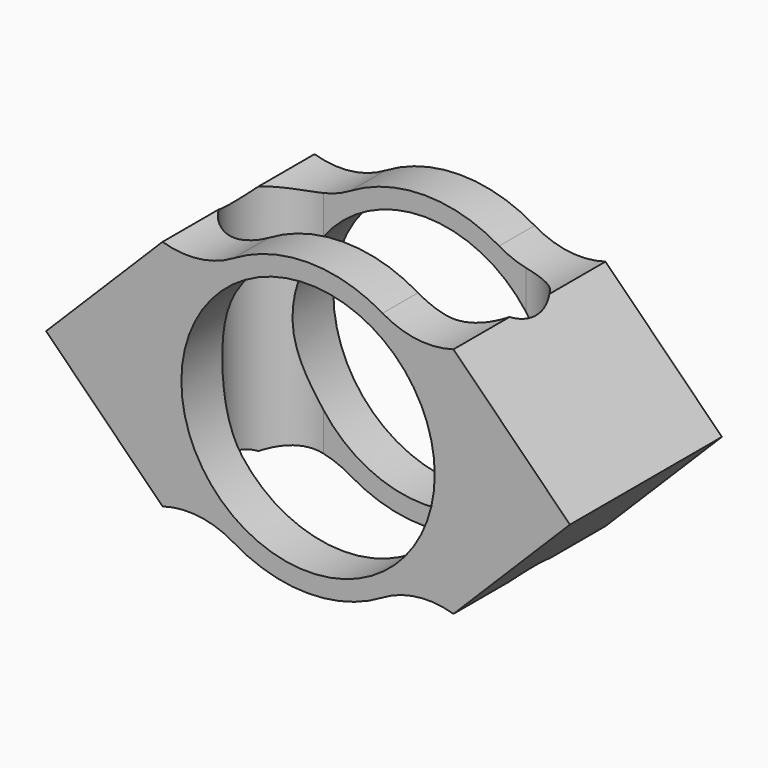
from build123d import *

# Parameters (mm, degrees)
F0_R     = 10
F1_DEPTH = 7.5
F3_DEPTH = 25


with BuildPart() as f1:
    # F0 (on Front) → F1 (new body, symmetric)
    with BuildSketch(Plane.XZ):
        with BuildLine():
            ThreePointArc((-5.885254, 9.879969), (-8.615226, 8.945951), (-11.490014, 9.192388))
            Line((-11.490014, 9.192388), (-20.682402, 0))
            Line((-20.682402, 0), (-11.490014, -9.192388))
            ThreePointArc((-11.490014, -9.192388), (-8.615226, -8.945951), (-5.885254, -9.879969))
            ThreePointArc((-5.885254, -9.879969), (-0.001168, -11.5), (5.883246, -9.881165))
            ThreePointArc((5.883246, -9.881165), (8.609393, -8.948194), (11.480401, -9.192388))
            Line((11.480401, -9.192388), (20.672789, 0))
            Line((20.672789, 0), (11.480401, 9.192388))
            ThreePointArc((11.480401, 9.192388), (8.609393, 8.948194), (5.883246, 9.881165))
            ThreePointArc((5.883246, 9.881165), (-0.001168, 11.5), (-5.885254, 9.879969))
        make_face()
        Circle(F0_R, mode=Mode.SUBTRACT)
    extrude(amount=F1_DEPTH, both=True)

    # F2 (on Top) → F3 (cut, symmetric)
    with BuildSketch(Plane.XY):
        with BuildLine():
            Line((8, 4), (-8, 4))
            ThreePointArc((-8, 4), (-12, 0), (-8, -4))
            Line((-8, -4), (8, -4))
            ThreePointArc((8, -4), (12, 0), (8, 4))
        make_face()
    extrude(amount=F3_DEPTH, both=True, mode=Mode.SUBTRACT)


solid = f1.part
